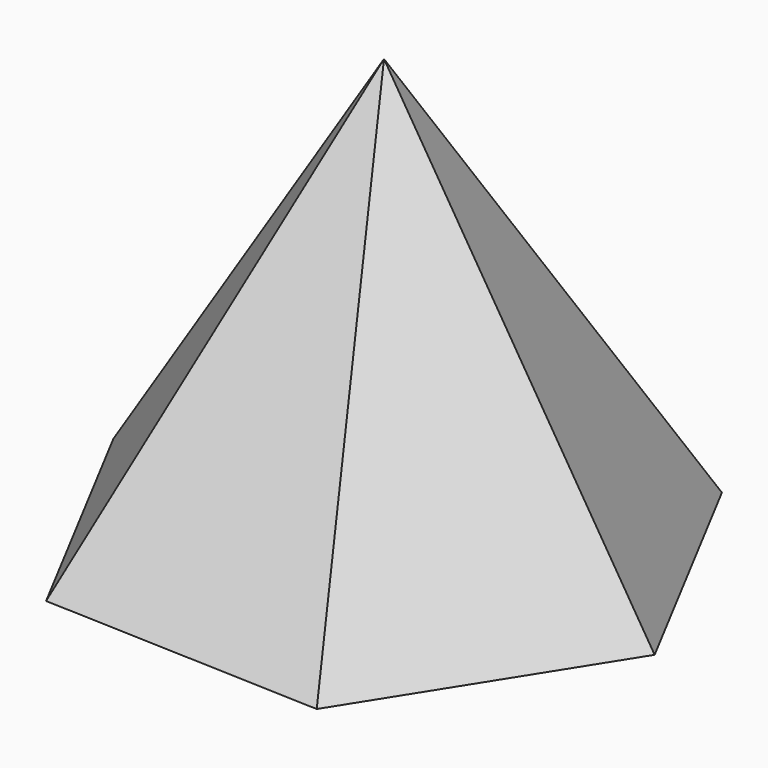
from build123d import *


with BuildPart() as f3:
    # F0 (on Top) → F3 section 0
    with BuildSketch(Plane.XY, mode=Mode.PRIVATE) as f3_s0:
        Polygon((-30.353894, 57.529568), (-64.999014, 2.477541), (-34.645121, -55.052027), (30.353894, -57.529568), (64.999014, -2.477541), (34.645121, 55.052027), align=None)
    loft([f3_s0.sketch, Vertex(0, 0, 100)])


solid = f3.part
